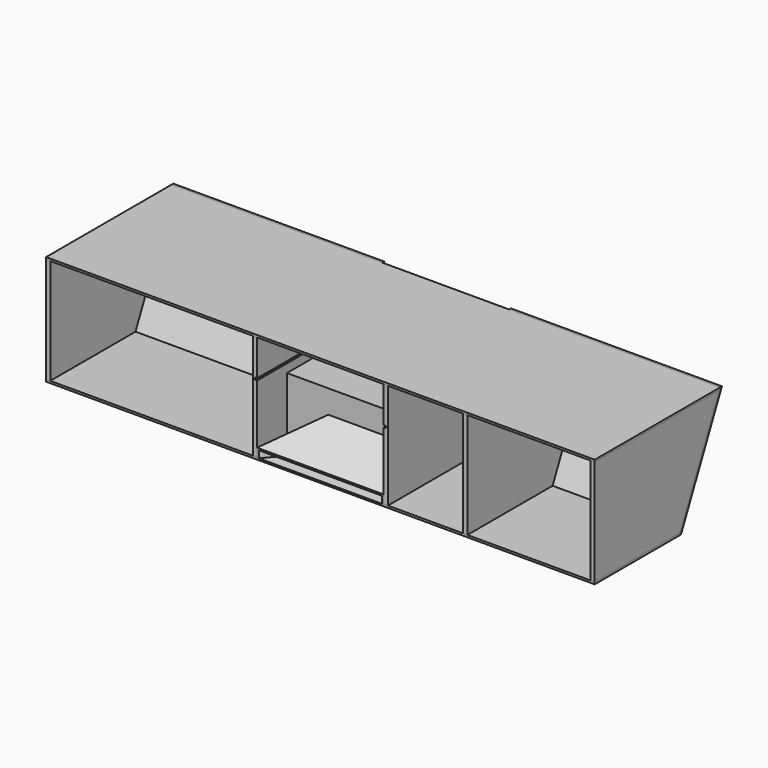
from build123d import *

# Parameters (mm, degrees)
F2_DEPTH       = 300
F4_DEPTH       = 12
F6_DEPTH       = 300
F6_DEPTH_BACK  = 300
F8_DEPTH       = 175
F9_W           = 5
F9_H           = 86.4681787789
F10_W          = 5
F10_H          = 20
F16_DEPTH      = 6
F19_DEPTH      = 300
F19_DEPTH_BACK = 1260


with BuildPart() as f2:
    # F1 (on offset) → F2 (new body, symmetric)
    with BuildSketch(Plane.YZ.offset(-480)):
        Polygon((300, 0), (302.7978459489, 6), (0, 6), (0, 0), align=None)
    extrude(amount=F2_DEPTH, both=True)


with BuildPart() as f4:
    # F3 (on face) → F4 (new body)
    with BuildSketch(Plane(origin=(-780, 0, 0), x_dir=(0, -1, 0), z_dir=(-1, 0, 0))):
        Polygon((0, 306), (-442.6901433954, 306), (-302.7978459489, 6), (0, 6), align=None)
    extrude(amount=-F4_DEPTH)


with BuildPart() as f5_1:
    # F5: instance of F4
    add(f4.part.mirror(Plane.YZ.offset(-480)))

    # F15 (on face) → F16 (cut)
    with BuildSketch(Plane.YZ.offset(-180)):
        Polygon((0, 203.7829527855), (0, 197.7829527855), (392.2277055364, 197.7829527855), (395.0255514853, 203.7829527855), align=None)
    extrude(amount=-F16_DEPTH, mode=Mode.SUBTRACT)


with BuildPart() as f6:
    # F1 (on offset) → F6 (new body, two sides)
    with BuildSketch(Plane.YZ.offset(-480)) as f6_sk:
        Polygon((442.6901433954, 306), (302.7978459489, 6), (300, 0), (306.6202675138, 0), (452.1082568581, 312), (445.4879893444, 312), align=None)
    extrude(amount=-F6_DEPTH)
    extrude(f6_sk.sketch, amount=F6_DEPTH_BACK)


with BuildPart() as f8:
    # F7 (on Right) → F8 (new body, symmetric)
    with BuildSketch(Plane.YZ):
        Polygon((100, 177.7829527855), (100, 0), (326.3603746891, 0), (409.2619270624, 177.7829527855), align=None)
    extrude(amount=F8_DEPTH, both=True)


with BuildPart() as f11:
    # F9 (on face) → F11 section 0
    with BuildSketch(Plane.XZ.offset(-100)):
        Polygon((94.86258775, 106.6214609891), (99.86258775, 106.6214609891), (99.86258775, 111.6214609891), (-57.6419617236, 111.6214609891), (-57.6419617236, 106.6214609891), (-52.6419617236, 106.6214609891), align=None)
    # F10 (on Front) → F11 section 1
    with BuildSketch(Plane.XZ):
        Polygon((-180, 30), (-180, 25), (-175, 25), (175, 25), (180, 25), (180, 30), align=None)
    loft()


with BuildPart() as f12:
    # F9 (on face) → F12 section 0
    with BuildSketch(Plane.XZ.offset(-100)):
        Polygon((99.86258775, 15.1532822102), (99.86258775, 20.1532822102), (94.86258775, 20.1532822102), (-52.6419617236, 20.1532822102), (-57.6419617236, 20.1532822102), (-57.6419617236, 15.1532822102), align=None)
    # F10 (on Front) → F12 section 1
    with BuildSketch(Plane.XZ):
        Polygon((-180, 5), (-180, 0), (180, 0), (180, 5), (175, 5), (-175, 5), align=None)
    loft()


with BuildPart() as f13:
    # F9 (on face) → F13 section 0
    with BuildSketch(Plane.XZ.offset(-100)):
        with Locations((97.36258775, 63.3873715997)):
            Rectangle(F9_W, F9_H)
    # F10 (on Front) → F13 section 1
    with BuildSketch(Plane.XZ):
        with Locations((177.5, 15)):
            Rectangle(F10_W, F10_H)
    loft()


with BuildPart() as f14:
    # F9 (on face) → F14 section 0
    with BuildSketch(Plane.XZ.offset(-100)):
        with Locations((-55.1419617236, 63.3873715997)):
            Rectangle(F9_W, F9_H)
    # F10 (on Front) → F14 section 1
    with BuildSketch(Plane.XZ):
        with Locations((-177.5, 15)):
            Rectangle(F10_W, F10_H)
    loft()


with BuildPart() as f17_1:
    # F17: instance of F5_1
    add(f5_1.part.mirror(Plane.YZ))


with BuildPart() as f17_2:
    # F17: instance of F6
    add(f6.part.mirror(Plane.YZ))


with BuildPart() as f17_3:
    # F17: instance of F4
    add(f4.part.mirror(Plane.YZ))


with BuildPart() as f17_4:
    # F17: instance of F2
    add(f2.part.mirror(Plane.YZ))


with BuildPart() as f18_1:
    # F18: copy of F17_3
    add(f17_3.part.moved(Location((-362, 0, 0))))


with BuildPart() as f19:
    # F1 (on offset) → F19 (new body, two sides)
    with BuildSketch(Plane.YZ.offset(-480)) as f19_sk:
        Polygon((0, 306), (442.6901433954, 306), (445.4879893444, 312), (0, 312), align=None)
    extrude(amount=-F19_DEPTH)
    extrude(f19_sk.sketch, amount=F19_DEPTH_BACK)


solid = Compound([f2.part, f4.part, f5_1.part, f6.part, f8.part, f11.part, f12.part, f13.part, f14.part, f17_1.part, f17_2.part, f17_3.part, f17_4.part, f18_1.part, f19.part])
